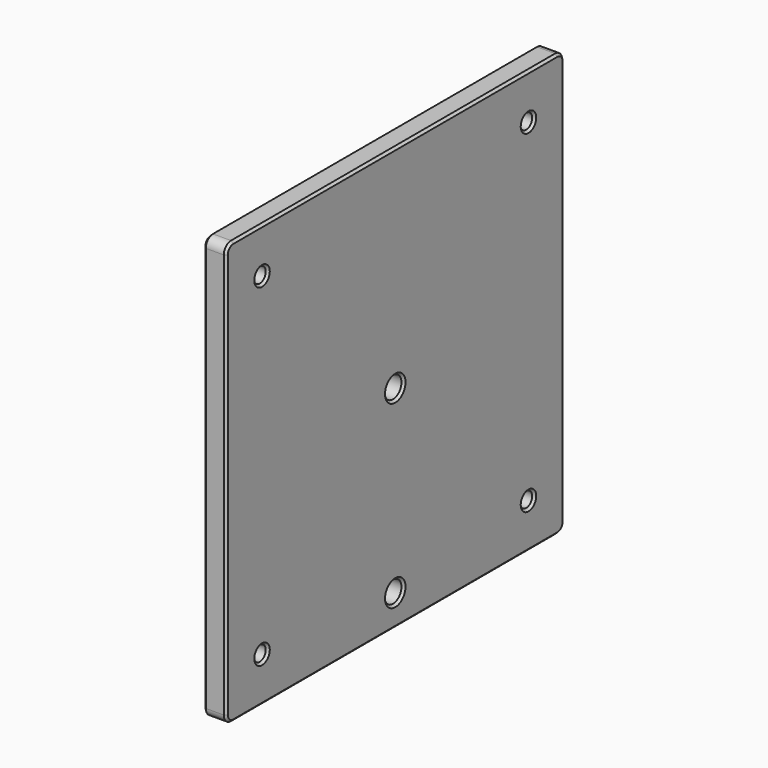
from build123d import *

# Parameters (mm, degrees)
SKETCH019_W     = 94
SKETCH019_H     = 94
SKETCH019_R     = 2.35
SKETCH019_R_2   = 1.65
PAD008_DEPTH    = 5
FILLET003_R     = 2
CHAMFER005_SIZE = 0.5
CHAMFER006_SIZE = 0.5


with BuildPart() as part:
    # Sketch019 → Pad008 (new body)
    with BuildSketch(Plane.YZ.offset(-35)):
        with Locations((0, 30.3506240158)):
            Rectangle(SKETCH019_W, SKETCH019_H)
        with Locations((0, 30.3506240158)):
            Circle(SKETCH019_R, mode=Mode.SUBTRACT)
        with Locations((-37, 67.3506240158)):
            Circle(SKETCH019_R_2, mode=Mode.SUBTRACT)
        with Locations((37, 67.3506240158)):
            Circle(SKETCH019_R_2, mode=Mode.SUBTRACT)
        with Locations((-37, -6.6493759842)):
            Circle(SKETCH019_R_2, mode=Mode.SUBTRACT)
        with Locations((37, -6.6493759842)):
            Circle(SKETCH019_R_2, mode=Mode.SUBTRACT)
        with Locations((0, -9.6493759842)):
            Circle(SKETCH019_R, mode=Mode.SUBTRACT)
    extrude(amount=-PAD008_DEPTH)

    # Fillet003
    fillet003_edges = [part.edges().sort_by_distance(p)[0] for p in [
        (-37.5, -47, -16.649376),
        (-37.5, -47, 77.350624),
        (-37.5, 47, 77.350624),
        (-37.5, 47, -16.649376),
    ]]
    fillet(fillet003_edges, radius=FILLET003_R)

    # Chamfer005
    chamfer005_edges = [part.edges().sort_by_distance(p)[0] for p in [
        (-35, -47, 30.350624),
        (-35, -46.414214, 76.764838),
        (-35, -46.414214, -16.06359),
        (-35, 0, 77.350624),
        (-35, 0, -16.649376),
        (-35, 46.414214, 76.764838),
        (-35, 46.414214, -16.06359),
        (-35, 47, 30.350624),
        (-35, -2.35, -9.649376),
        (-35, -2.35, 30.350624),
        (-35, 35.35, 67.350624),
        (-35, -38.65, 67.350624),
        (-35, 35.35, -6.649376),
        (-35, -38.65, -6.649376),
    ]]
    chamfer(chamfer005_edges, length=CHAMFER005_SIZE)

    # Chamfer006
    chamfer006_edges = [part.edges().sort_by_distance(p)[0] for p in [
        (-40, -47, 30.350624),
        (-40, -46.414214, 76.764838),
        (-40, -46.414214, -16.06359),
        (-40, 0, 77.350624),
        (-40, 0, -16.649376),
        (-40, 46.414214, 76.764838),
        (-40, 46.414214, -16.06359),
        (-40, 47, 30.350624),
        (-40, -2.35, -9.649376),
        (-40, -2.35, 30.350624),
        (-40, 35.35, 67.350624),
        (-40, -38.65, 67.350624),
        (-40, 35.35, -6.649376),
        (-40, -38.65, -6.649376),
    ]]
    chamfer(chamfer006_edges, length=CHAMFER006_SIZE)


solid = part.part
